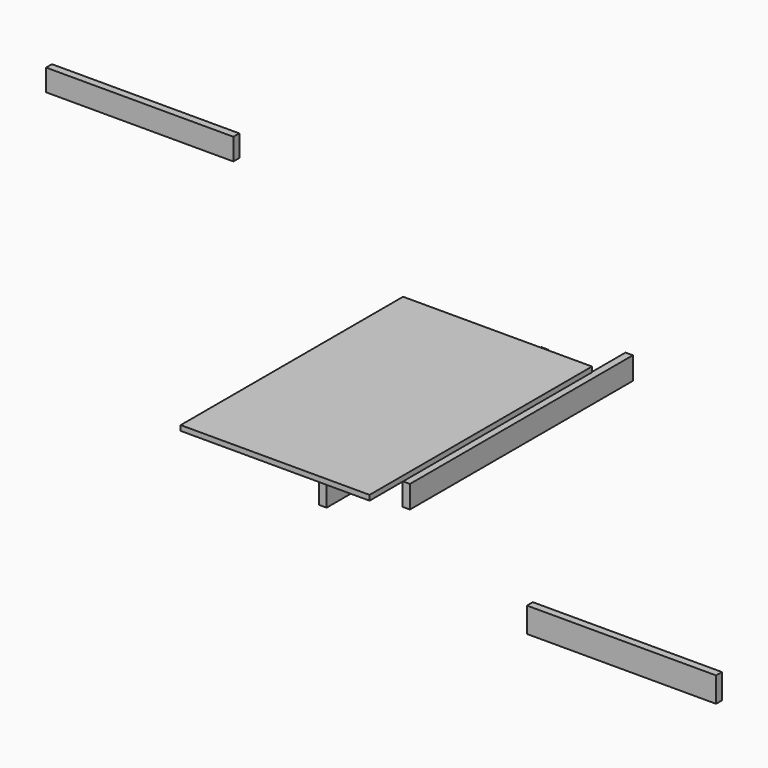
from build123d import *

# Parameters (mm, degrees)
F0_W     = 102.731034
F0_H     = 151.177152
F1_DEPTH = 2.8
F2_W     = 151.009284
F2_H     = 14.196156
F3_DEPTH = 4
F4_W     = 151.532307
F4_H     = 12.267362
F5_DEPTH = 4
F6_W     = 102.836437
F6_H     = 13.608955
F7_DEPTH = 4
F8_W     = 101.857022
F8_H     = 11.83685
F9_DEPTH = 4


with BuildPart() as f1:
    # F0 (on Top) → F1 (new body)
    with BuildSketch(Plane.XY):
        Rectangle(F0_W, F0_H)
    extrude(amount=F1_DEPTH)


with BuildPart() as f3:
    # F2 (on Right) → F3 (new body)
    with BuildSketch(Plane.YZ):
        with Locations((29.899839, -23.842362)):
            Rectangle(F2_W, F2_H)
    extrude(amount=F3_DEPTH)


with BuildPart() as f5:
    # F4 (on Right) → F5 (new body)
    with BuildSketch(Plane.YZ):
        with Locations((86.804323, -48.724914)):
            Rectangle(F4_W, F4_H)
    extrude(amount=F5_DEPTH)


with BuildPart() as f7:
    # F6 (on Front) → F7 (new body)
    with BuildSketch(Plane.XZ):
        with Locations((131.078835, -76.893512)):
            Rectangle(F6_W, F6_H)
    extrude(amount=F7_DEPTH)


with BuildPart() as f9:
    # F8 (on Front) → F9 (new body)
    with BuildSketch(Plane.XZ):
        with Locations((-130.909182, 96.50952)):
            Rectangle(F8_W, F8_H)
    extrude(amount=F9_DEPTH)


solid = Compound([f1.part, f3.part, f5.part, f7.part, f9.part])
